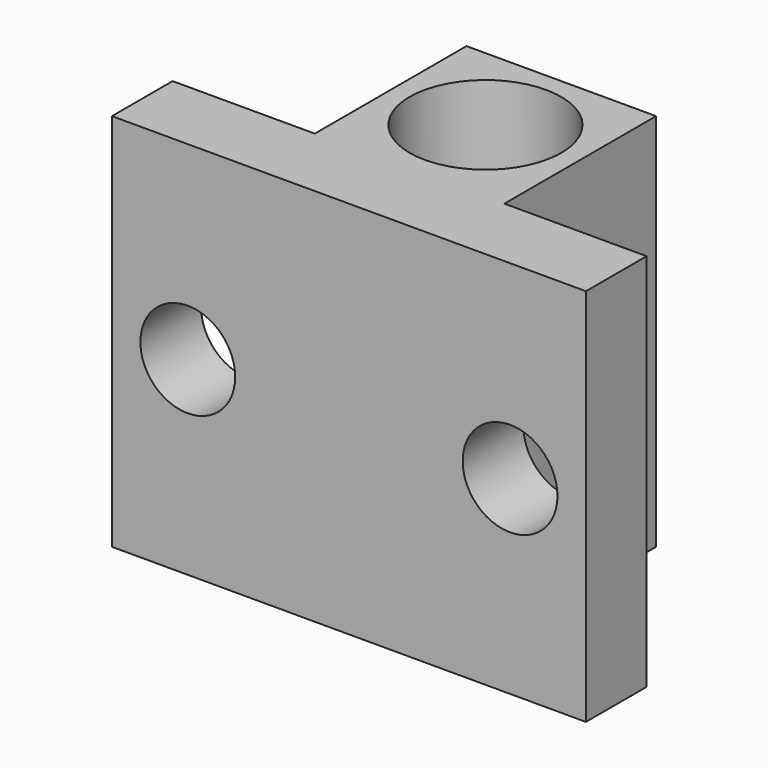
from build123d import *

# Parameters (mm, degrees)
SKETCH025_W     = 25
SKETCH025_H     = 20
SKETCH025_R     = 2.5
PAD013_DEPTH    = 4
SKETCH026_W     = 10
SKETCH026_H     = 20
PAD014_DEPTH    = 10
SKETCH027_R     = 4
POCKET013_DEPTH = 20.001


with BuildPart() as part:
    # Sketch025 → Pad013 (new body)
    with BuildSketch(Plane.XZ):
        Rectangle(SKETCH025_W, SKETCH025_H)
        with Locations((-8.5, 0)):
            Circle(SKETCH025_R, mode=Mode.SUBTRACT)
        with Locations((8.5, 0)):
            Circle(SKETCH025_R, mode=Mode.SUBTRACT)
    extrude(amount=PAD013_DEPTH)

    # Sketch026 (on Face7 of Pad013) → Pad014 (join)
    with BuildSketch(Plane(origin=(0, 0, 0), x_dir=(1, 0, 0), z_dir=(0, 1, 0))):
        Rectangle(SKETCH026_W, SKETCH026_H)
    extrude(amount=PAD014_DEPTH)

    # Sketch027 (on Face5 of Pad014) → Pocket013 (cut, through all)
    with BuildSketch(Plane(origin=(0, 0, 10), x_dir=(-1, 0, 0), z_dir=(0, 0, 1))):
        with Locations((0, -5)):
            Circle(SKETCH027_R)
    extrude(amount=-POCKET013_DEPTH, mode=Mode.SUBTRACT)


solid = part.part
